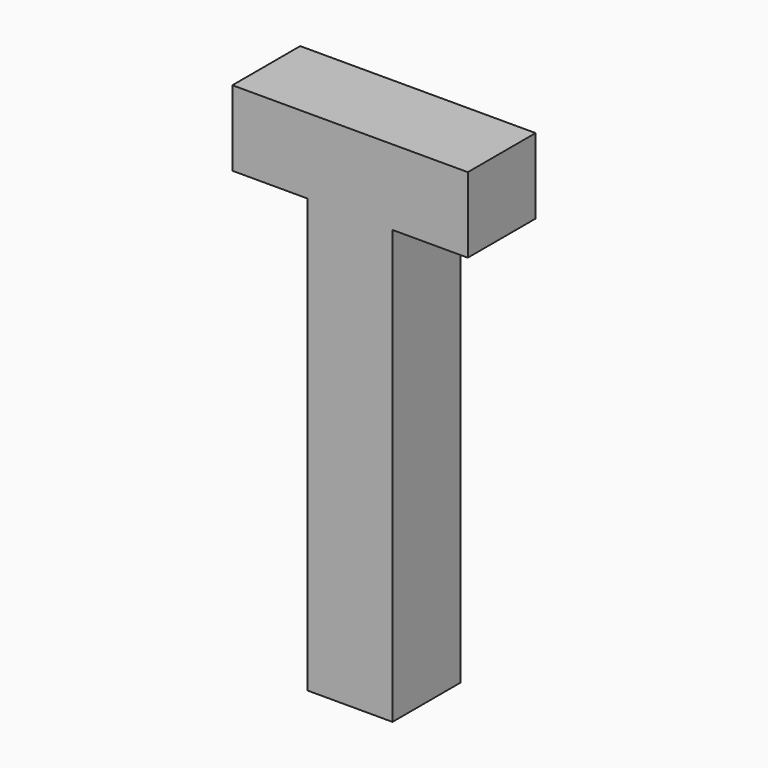
from build123d import *

# Parameters (mm, degrees)
F1_DEPTH      = 2.25
F1_DEPTH_BACK = 2.25


with BuildPart() as f1:
    # F0 (on Front) → F1 (new body, two sides)
    with BuildSketch(Plane.XZ) as f1_sk:
        Polygon((6.25, 4), (-6.25, 4), (-6.25, 0), (-2.25, 0), (-2.25, -23), (2.25, -23), (2.25, 0), (6.25, 0), align=None)
    extrude(amount=F1_DEPTH)
    extrude(f1_sk.sketch, amount=-F1_DEPTH_BACK)


solid = f1.part
